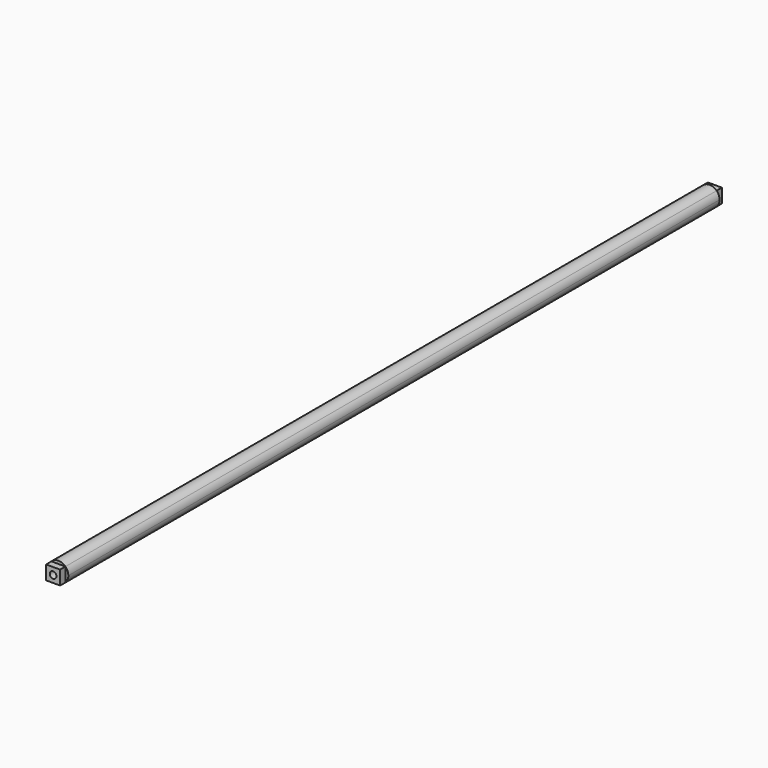
from build123d import *

# Parameters (mm, degrees)
F0_W     = 21.213204
F0_H     = 21.213204
F0_R     = 5
F1_DEPTH = 625
F2_DEPTH = 615
F3_DEPTH = 550


with BuildPart() as f1:
    # F0 (on Front) → F1 (new body, symmetric)
    with BuildSketch(Plane.XZ):
        Rectangle(F0_W, F0_H)
        Circle(F0_R, mode=Mode.SUBTRACT)
    extrude(amount=F1_DEPTH, both=True)

    # F0 (on Front) → F2 (join, symmetric)
    with BuildSketch(Plane.XZ):
        with BuildLine():
            Line((-10.606602, 10.606602), (10.606602, 10.606602))
            ThreePointArc((10.606602, 10.606602), (0, 15), (-10.606602, 10.606602))
        make_face()
        with BuildLine():
            ThreePointArc((10.606602, -10.606602), (13.858193, -5.740251), (15, 0))
            ThreePointArc((15, 0), (13.858193, 5.740251), (10.606602, 10.606602))
            Line((10.606602, 10.606602), (10.606602, -10.606602))
        make_face()
        with BuildLine():
            ThreePointArc((-10.606602, -10.606602), (0, -15), (10.606602, -10.606602))
            Line((10.606602, -10.606602), (-10.606602, -10.606602))
        make_face()
        with BuildLine():
            Line((-10.606602, -10.606602), (-10.606602, 10.606602))
            ThreePointArc((-10.606602, 10.606602), (-15, 0), (-10.606602, -10.606602))
        make_face()
    extrude(amount=F2_DEPTH, both=True)

    # F0 (on Front) → F3 (join, symmetric)
    with BuildSketch(Plane.XZ):
        Circle(F0_R)
    extrude(amount=F3_DEPTH, both=True)


solid = f1.part
